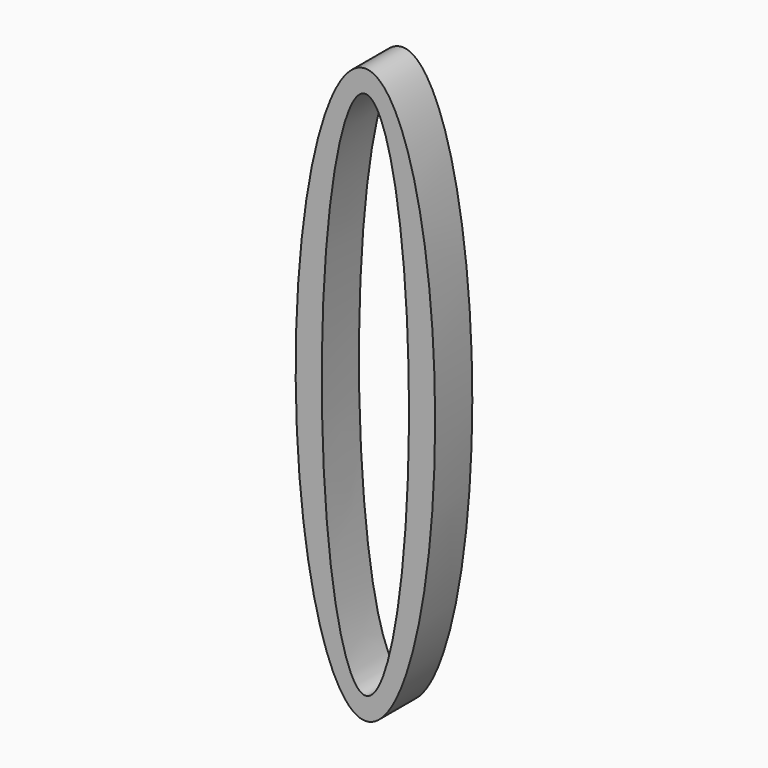
from build123d import *

# Parameters (mm, degrees)
F1_DEPTH = 50.8


with BuildPart() as f1:
    # F0 (on Front) → F1 (new body)
    with BuildSketch(Plane.XZ):
        with BuildLine():
            add(Edge.make_bspline(
                [(0, 313.808156), (-131.982272, 313.808156), (-65.991136, -156.904078), (0, -627.616312), (65.991136, -156.904078), (131.982272, 313.808156), (0, 313.808156)],
                knots=[0, 0, 0, 2.094395, 2.094395, 4.18879, 4.18879, 6.283185, 6.283185, 6.283185], degree=2, weights=[1, 0.5, 1, 0.5, 1, 0.5, 1]))
        make_face()
        with BuildLine():
            add(Edge.make_bspline(
                [(0, 289.455284), (-82.578205, 289.455284), (-41.289103, -144.727642), (0, -578.910568), (41.289103, -144.727642), (82.578205, 289.455284), (0, 289.455284)],
                knots=[0, 0, 0, 2.094395, 2.094395, 4.18879, 4.18879, 6.283185, 6.283185, 6.283185], degree=2, weights=[1, 0.5, 1, 0.5, 1, 0.5, 1]))
        make_face(mode=Mode.SUBTRACT)
    extrude(amount=F1_DEPTH)


solid = f1.part
